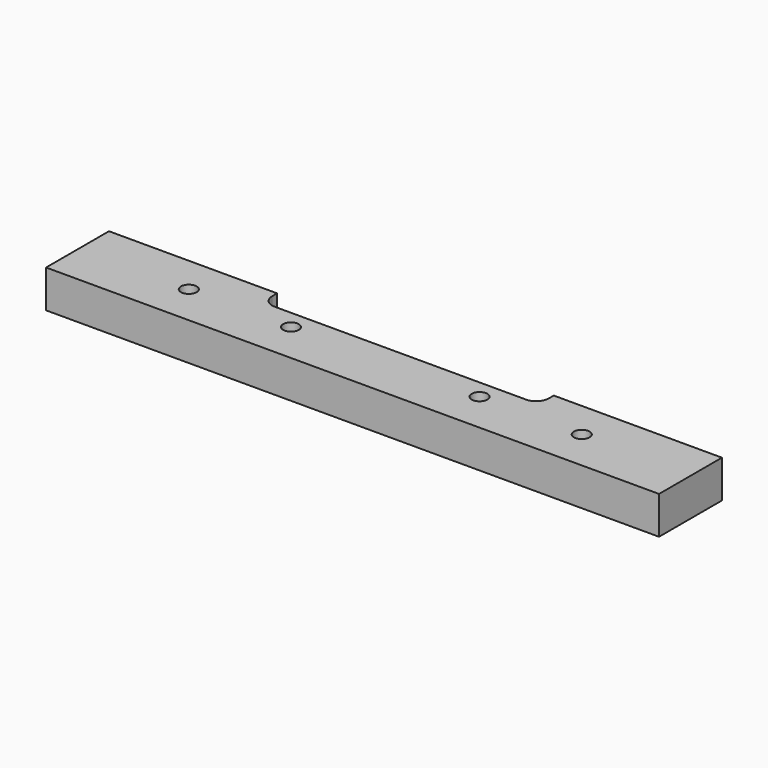
from build123d import *

# Parameters (mm, degrees)
F0_R     = 2.5
F1_DEPTH = 12
F2_R     = 4


with BuildPart() as f1:
    # F0 (on Top) → F1 (new body)
    with BuildSketch(Plane.XY):
        Polygon((-97.5, -12.5), (97.5, -12.5), (97.5, 12.5), (44, 12.5), (44, 6.5), (-44, 6.5), (-44, 12.5), (-97.5, 12.5), align=None)
        with Locations((-62.5, 0.5)):
            Circle(F0_R, mode=Mode.SUBTRACT)
        with Locations((-30, 0.5)):
            Circle(F0_R, mode=Mode.SUBTRACT)
        with Locations((30, 0.5)):
            Circle(F0_R, mode=Mode.SUBTRACT)
        with Locations((62.5, 0.5)):
            Circle(F0_R, mode=Mode.SUBTRACT)
    extrude(amount=F1_DEPTH)

    # F2
    f2_edges = [f1.edges().sort_by_distance(p)[0] for p in [
        (-44, 6.5, 6),
        (44, 6.5, 6),
    ]]
    fillet(f2_edges, radius=F2_R)


solid = f1.part
